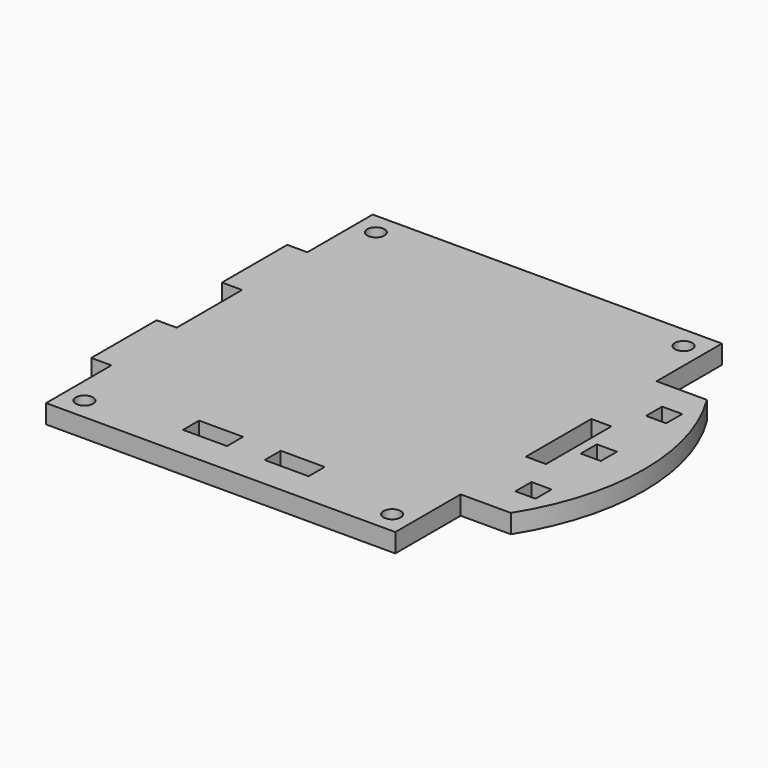
from build123d import *

# Parameters (mm, degrees)
F0_R     = 1.375
F0_W     = 7
F0_H     = 3.2
F0_W_2   = 3.2
F0_H_2   = 13
F1_DEPTH = 1.5


with BuildPart() as f1:
    # F0 (on Top) → F1 (new body, symmetric)
    with BuildSketch(Plane.XY):
        with BuildLine():
            Line((-27.8, -32.5), (27.8, -32.5))
            Line((27.8, -32.5), (27.8, -19.5))
            Line((27.8, -19.5), (31, -19.5))
            Line((31, -19.5), (35.796361, -19.5))
            ThreePointArc((35.796361, -19.5), (41.42, 0), (35.796361, 19.5))
            Line((35.796361, 19.5), (31, 19.5))
            Line((31, 19.5), (27.8, 19.5))
            Line((27.8, 19.5), (27.8, 32.5))
            Line((27.8, 32.5), (-27.8, 32.5))
            Line((-27.8, 32.5), (-27.8, 19.5))
            Line((-27.8, 19.5), (-31, 19.5))
            Line((-31, 19.5), (-31, 6.5))
            Line((-31, 6.5), (-27.8, 6.5))
            Line((-27.8, 6.5), (-27.8, -6.5))
            Line((-27.8, -6.5), (-31, -6.5))
            Line((-31, -6.5), (-31, -19.5))
            Line((-31, -19.5), (-27.8, -19.5))
            Line((-27.8, -19.5), (-27.8, -32.5))
        make_face()
        with Locations((-24.5, -29)):
            Circle(F0_R, mode=Mode.SUBTRACT)
        with Locations((-6.5, -25.9)):
            Rectangle(F0_W, F0_H, mode=Mode.SUBTRACT)
        with Locations((6.5, -25.9)):
            Rectangle(F0_W, F0_H, mode=Mode.SUBTRACT)
        with Locations((24.5, -29)):
            Circle(F0_R, mode=Mode.SUBTRACT)
        with Locations((34.2, -13)):
            Rectangle(F0_W_2, F0_H, mode=Mode.SUBTRACT)
        with Locations((-24.5, 29)):
            Circle(F0_R, mode=Mode.SUBTRACT)
        with Locations((29.4, 0)):
            Rectangle(F0_W_2, F0_H_2, mode=Mode.SUBTRACT)
        Polygon((32.6, 1.6), (34.2, 1.6), (35.8, 1.6), (35.8, -1.6), (32.6, -1.6), align=None, mode=Mode.SUBTRACT)
        with Locations((34.2, 13)):
            Rectangle(F0_W_2, F0_H, mode=Mode.SUBTRACT)
        with Locations((24.5, 29)):
            Circle(F0_R, mode=Mode.SUBTRACT)
    extrude(amount=F1_DEPTH, both=True)


solid = f1.part
